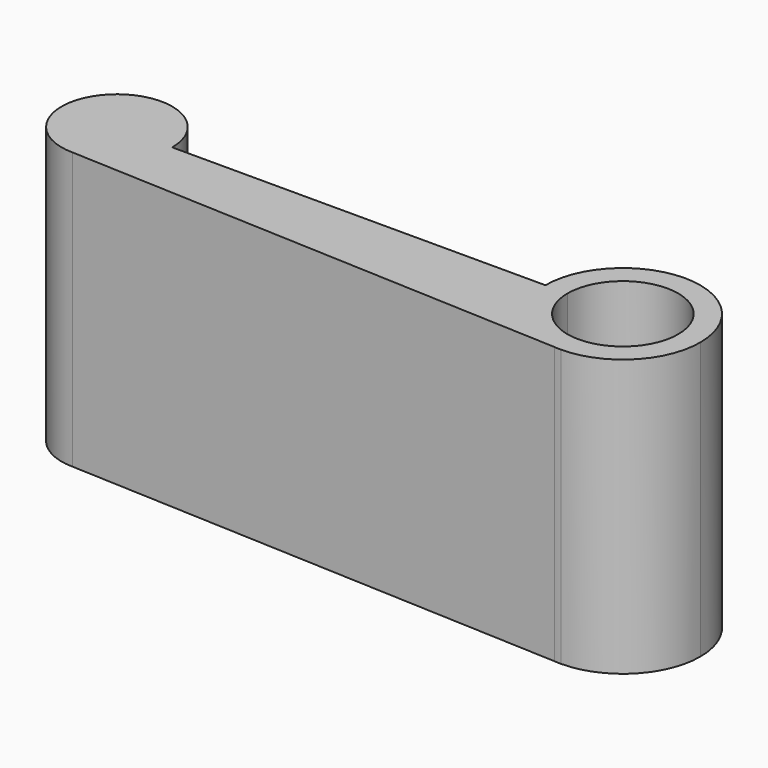
from build123d import *

# Parameters (mm, degrees)
F1_DEPTH = 25


with BuildPart() as f1:
    # F0 (on Top) → F1 (new body)
    with BuildSketch(Plane.XY):
        with BuildLine():
            ThreePointArc((52.7247383893, 0), (45.7247383893, 7), (38.7247383893, 0))
            Line((38.7247383893, 0), (40.7247383893, 0))
            ThreePointArc((40.7247383893, 0), (45.7247383893, 5), (50.7247383893, 0))
            ThreePointArc((50.7247383893, 0), (49.2602722952, -3.5355339059), (45.7247383893, -5))
            Line((45.7247383893, -5), (45.7247383893, -7))
            ThreePointArc((45.7247383893, -7), (50.6744858576, -4.9497474683), (52.7247383893, 0))
        make_face()
        with BuildLine():
            ThreePointArc((0, -5), (3.5355339059, -3.5355339059), (5, 0))
            ThreePointArc((5, 0), (-3.5355339059, 3.5355339059), (0, -5))
        make_face()
        with BuildLine():
            Line((22.8623691946, 0), (5, 0))
            ThreePointArc((5, 0), (3.5355339059, -3.5355339059), (0, -5))
            Line((0, -5), (45.1135477291, -6.9732665213))
            ThreePointArc((45.1135477291, -6.9732665213), (40.5634238948, -4.7287242137), (38.7247383893, 0))
            Line((38.7247383893, 0), (22.8623691946, 0))
        make_face()
        with BuildLine():
            Line((45.7247383893, -7), (45.1135477291, -6.9732665213))
            ThreePointArc((45.1135477291, -6.9732665213), (45.4188508683, -6.9933134367), (45.7247383893, -7))
        make_face()
        with BuildLine():
            ThreePointArc((38.7247383893, 0), (40.5634238948, -4.7287242137), (45.1135477291, -6.9732665213))
            Line((45.1135477291, -6.9732665213), (45.7247383893, -7))
            Line((45.7247383893, -7), (45.7247383893, -5))
            ThreePointArc((45.7247383893, -5), (42.1892044833, -3.5355339059), (40.7247383893, 0))
            Line((40.7247383893, 0), (38.7247383893, 0))
        make_face()
        with BuildLine():
            ThreePointArc((52.7247383893, 0), (45.7247383893, 7), (38.7247383893, 0))
            Line((38.7247383893, 0), (40.7247383893, 0))
            ThreePointArc((40.7247383893, 0), (45.7247383893, 5), (50.7247383893, 0))
            ThreePointArc((50.7247383893, 0), (49.2602722952, -3.5355339059), (45.7247383893, -5))
            Line((45.7247383893, -5), (45.7247383893, -7))
            ThreePointArc((45.7247383893, -7), (50.6744858576, -4.9497474683), (52.7247383893, 0))
        make_face()
        with BuildLine():
            Line((22.8623691946, 0), (5, 0))
            ThreePointArc((5, 0), (3.5355339059, -3.5355339059), (0, -5))
            Line((0, -5), (45.1135477291, -6.9732665213))
            ThreePointArc((45.1135477291, -6.9732665213), (40.5634238948, -4.7287242137), (38.7247383893, 0))
            Line((38.7247383893, 0), (22.8623691946, 0))
        make_face()
    extrude(amount=F1_DEPTH)


solid = f1.part
